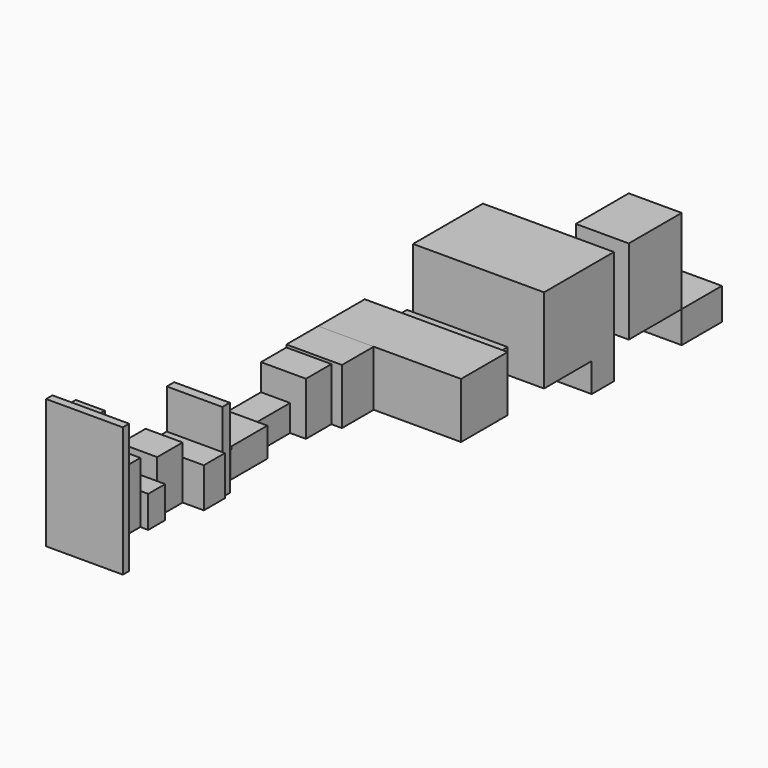
from build123d import *

# Parameters (mm, degrees)
F0_W      = 965.2
F0_H      = 406.4
F1_DEPTH  = 254
F2_W      = 1371.6
F2_H      = 533.4
F3_DEPTH  = 558.8
F5_W      = 1257.3
F5_H      = 812.8
F6_DEPTH  = 838.2
F7_W      = 1257.3
F7_H      = 266.7
F8_DEPTH  = 279.4
F10_W     = 508
F10_H     = 812.8
F11_DEPTH = 635
F12_W     = 508
F12_H     = 482.6
F13_DEPTH = 304.8
F14_W     = 533.4
F14_H     = 533.4
F15_DEPTH = 381
F16_W     = 431.8
F16_H     = 508
F17_DEPTH = 304.8
F18_W     = 279.4
F18_H     = 254
F19_DEPTH = 431.8
F20_W     = 406.4
F20_H     = 279.4
F21_DEPTH = 431.8
F22_W     = 406.4
F22_H     = 254
F23_DEPTH = 177.8
F24_W     = 533.4
F24_H     = 762
F25_DEPTH = 88.9
F26_W     = 558.8
F26_H     = 381
F27_DEPTH = 254
F28_W     = 355.6
F28_H     = 508
F29_DEPTH = 304.8
F30_W     = 431.8
F30_H     = 304.8
F31_DEPTH = 203.2
F32_W     = 355.6
F32_H     = 584.2
F33_DEPTH = 330.2
F34_W     = 279.4
F34_H     = 1092.2
F35_DEPTH = 279.4
F36_W     = 736.6
F36_H     = 1244.6
F37_DEPTH = 76.2


with BuildPart() as f1:
    # F0 (on Front) → F1 (new body)
    with BuildSketch(Plane.XZ):
        with Locations((482.6, 203.2)):
            Rectangle(F0_W, F0_H)
    extrude(amount=F1_DEPTH)

    # F2 (on face) → F3 (join)
    with BuildSketch(Plane.XZ.offset(254)):
        with Locations((482.6, 266.7)):
            Rectangle(F2_W, F2_H)
    extrude(amount=F3_DEPTH)


with BuildPart() as f6:
    # F5 (on offset) → F6 (new body)
    with BuildSketch(Plane(origin=(0, 254, 0), x_dir=(-1, 0, 0), z_dir=(0, 1, 0))):
        with Locations((-482.6, 406.4)):
            Rectangle(F5_W, F5_H)
    extrude(amount=F6_DEPTH)

    # F7 (on face) → F8 (join)
    with BuildSketch(Plane(origin=(0, 0, 0), x_dir=(1, 0, 0), z_dir=(0, 0, -1))):
        with Locations((482.6, -958.85)):
            Rectangle(F7_W, F7_H)
    extrude(amount=F8_DEPTH)


with BuildPart() as f11:
    # F10 (on offset) → F11 (new body)
    with BuildSketch(Plane(origin=(0, 1270, 0), x_dir=(-1, 0, 0), z_dir=(0, 1, 0))):
        with Locations((-857.25, 406.4)):
            Rectangle(F10_W, F10_H)
    extrude(amount=F11_DEPTH)


with BuildPart() as f13:
    # F12 (on face) → F13 (new body)
    with BuildSketch(Plane(origin=(0, 0, 0), x_dir=(1, 0, 0), z_dir=(0, 0, -1))):
        with Locations((857.25, -2146.3)):
            Rectangle(F12_W, F12_H)
    extrude(amount=F13_DEPTH)


with BuildPart() as f15:
    # F14 (on face) → F15 (new body)
    with BuildSketch(Plane.XZ.offset(812.8)):
        with Locations((63.5, 266.7)):
            Rectangle(F14_W, F14_H)
    extrude(amount=F15_DEPTH)


with BuildPart() as f17:
    # F16 (on face) → F17 (new body)
    with BuildSketch(Plane.XZ.offset(1193.8)):
        with Locations((12.7, 254)):
            Rectangle(F16_W, F16_H)
    extrude(amount=F17_DEPTH)


with BuildPart() as f19:
    # F18 (on face) → F19 (new body)
    with BuildSketch(Plane.XZ.offset(1498.6)):
        with Locations((-63.5, 127)):
            Rectangle(F18_W, F18_H)
    extrude(amount=F19_DEPTH)


with BuildPart() as f21:
    # F20 (on face) → F21 (new body)
    with BuildSketch(Plane.XZ.offset(1930.4)):
        with Locations((0, 139.7)):
            Rectangle(F20_W, F20_H)
    extrude(amount=F21_DEPTH)


with BuildPart() as f23:
    # F22 (on face) → F23 (new body)
    with BuildSketch(Plane.XZ.offset(2362.2)):
        with Locations((0, 127)):
            Rectangle(F22_W, F22_H)
    extrude(amount=F23_DEPTH)


with BuildPart() as f25:
    # F24 (on face) → F25 (new body)
    with BuildSketch(Plane.XZ.offset(2540)):
        with Locations((63.5, 381)):
            Rectangle(F24_W, F24_H)
    extrude(amount=F25_DEPTH)


with BuildPart() as f27:
    # F26 (on face) → F27 (new body)
    with BuildSketch(Plane.XZ.offset(2628.9)):
        with Locations((76.2, 190.5)):
            Rectangle(F26_W, F26_H)
    extrude(amount=F27_DEPTH)


with BuildPart() as f29:
    # F28 (on face) → F29 (new body)
    with BuildSketch(Plane.XZ.offset(2882.9)):
        with Locations((-25.4, 254)):
            Rectangle(F28_W, F28_H)
    extrude(amount=F29_DEPTH)


with BuildPart() as f31:
    # F30 (on face) → F31 (new body)
    with BuildSketch(Plane.XZ.offset(3187.7)):
        with Locations((12.7, 152.4)):
            Rectangle(F30_W, F30_H)
    extrude(amount=F31_DEPTH)


with BuildPart() as f33:
    # F32 (on face) → F33 (new body)
    with BuildSketch(Plane.XZ.offset(3390.9)):
        with Locations((-25.4, 292.1)):
            Rectangle(F32_W, F32_H)
    extrude(amount=F33_DEPTH)


with BuildPart() as f35:
    # F34 (on face) → F35 (new body)
    with BuildSketch(Plane.XZ.offset(3721.1)):
        with Locations((-63.5, 546.1)):
            Rectangle(F34_W, F34_H)
    extrude(amount=F35_DEPTH)


with BuildPart() as f37:
    # F36 (on face) → F37 (new body)
    with BuildSketch(Plane.XZ.offset(4000.5)):
        with Locations((165.1, 622.3)):
            Rectangle(F36_W, F36_H)
    extrude(amount=F37_DEPTH)


solid = Compound([f1.part, f6.part, f11.part, f13.part, f15.part, f17.part, f19.part, f21.part, f23.part, f25.part, f27.part, f29.part, f31.part, f33.part, f35.part, f37.part])
